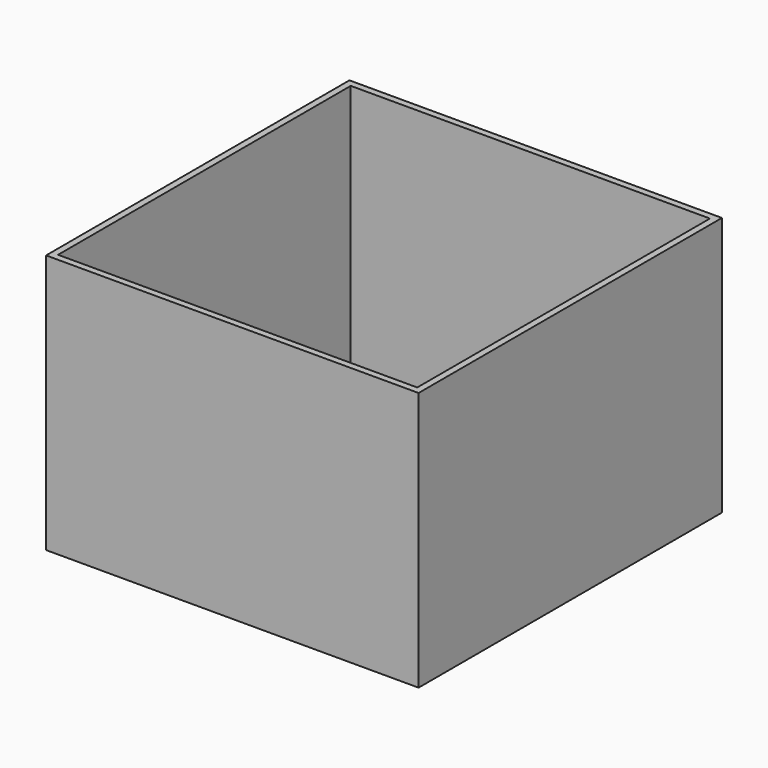
from build123d import *

# Parameters (mm, degrees)
F0_W     = 2844.8
F0_H     = 2895.6
F1_DEPTH = 990.6
F2_T     = -50.8


with BuildPart() as f1:
    # F0 (on Top) → F1 (new body, symmetric)
    with BuildSketch(Plane.XY):
        Rectangle(F0_W, F0_H)
    extrude(amount=F1_DEPTH, both=True)

    # F2
    f2_openings = [f1.faces().sort_by_distance(p)[0] for p in [
        (0, 0, 990.6),
    ]]
    offset(amount=F2_T, openings=f2_openings)


solid = f1.part
